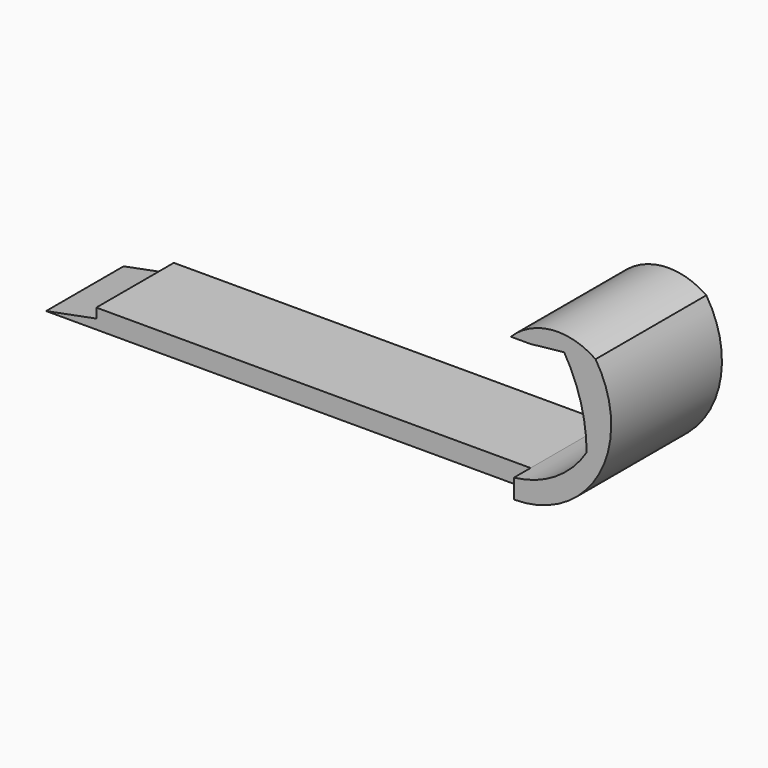
from build123d import *

# Parameters (mm, degrees)
F1_DEPTH = 6.35
F2_DEPTH = 4.445


with BuildPart() as f1:
    # F0 (on Front) → F1 (new body, symmetric)
    with BuildSketch(Plane.XZ):
        with BuildLine():
            Line((-5.0598434882, 1.778), (-5.0598434882, 0))
            ThreePointArc((-5.0598434882, 0), (2.7777736208, 4.6602924492), (2.4264816276, 13.7719970972))
            ThreePointArc((2.4264816276, 13.7719970972), (-1.5902340881, 14.8333673091), (-5.3480924107, 13.0616414006))
            Line((-5.3480924107, 13.0616414006), (-3.5489785951, 13.0616414006))
            Line((-3.5489785951, 13.0616414006), (-0.4502555011, 13.4008502945))
            ThreePointArc((-0.4502555011, 13.4008502945), (1.0825637313, 9.8245537702), (1.6061444356, 5.969))
            ThreePointArc((1.6061444356, 5.969), (-1.2469739872, 3.1102347773), (-5.0598434882, 1.778))
        make_face()
    extrude(amount=F1_DEPTH, both=True)

    # F0 (on Front) → F2 (join, symmetric)
    with BuildSketch(Plane.XZ):
        Polygon((-44.9025481939, 0.889), (-49.5098434882, 0), (-5.0598434882, 0), (-5.0598434882, 1.778), (-44.9025481939, 1.778), align=None)
    extrude(amount=F2_DEPTH, both=True)


solid = f1.part
